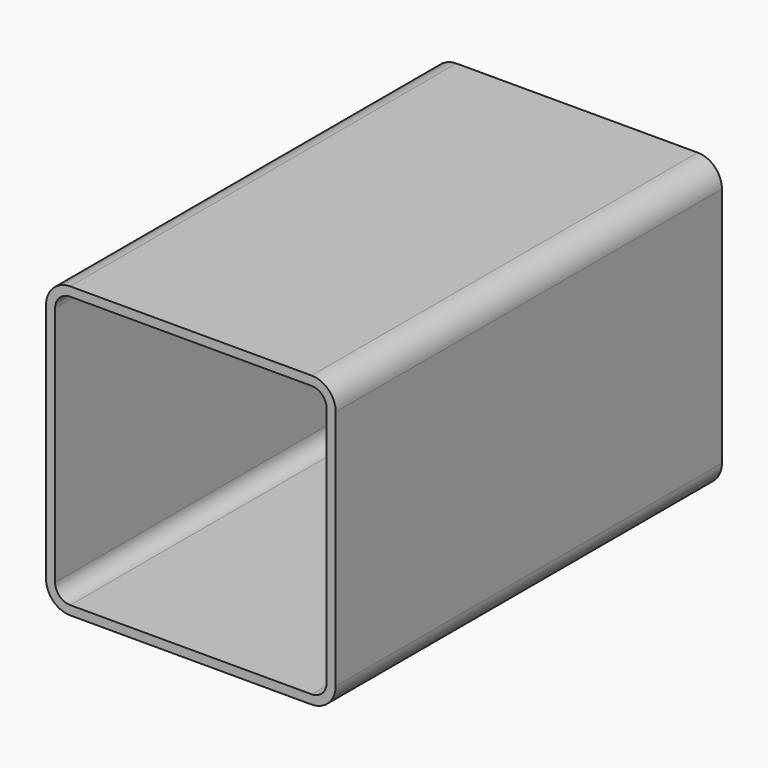
from build123d import *

# Parameters (mm, degrees)
F1_DEPTH = 254


with BuildPart() as f1:
    # F0 (on Front) → F1 (new body)
    with BuildSketch(Plane.XZ):
        with BuildLine():
            ThreePointArc((-76.2, -63.5), (-72.480256, -72.480256), (-63.5, -76.2))
            Line((-63.5, -76.2), (63.5, -76.2))
            ThreePointArc((63.5, -76.2), (72.480256, -72.480256), (76.2, -63.5))
            Line((76.2, -63.5), (76.2, 63.5))
            ThreePointArc((76.2, 63.5), (72.480256, 72.480256), (63.5, 76.2))
            Line((63.5, 76.2), (-63.5, 76.2))
            ThreePointArc((-63.5, 76.2), (-72.480256, 72.480256), (-76.2, 63.5))
            Line((-76.2, 63.5), (-76.2, -63.5))
        make_face()
        with BuildLine():
            ThreePointArc((-71.4375, 63.5), (-69.11266, 69.11266), (-63.5, 71.4375))
            Line((-63.5, 71.4375), (63.5, 71.4375))
            ThreePointArc((63.5, 71.4375), (69.11266, 69.11266), (71.4375, 63.5))
            Line((71.4375, 63.5), (71.4375, -63.5))
            ThreePointArc((71.4375, -63.5), (69.11266, -69.11266), (63.5, -71.4375))
            Line((63.5, -71.4375), (-63.5, -71.4375))
            ThreePointArc((-63.5, -71.4375), (-69.11266, -69.11266), (-71.4375, -63.5))
            Line((-71.4375, -63.5), (-71.4375, 63.5))
        make_face(mode=Mode.SUBTRACT)
    extrude(amount=-F1_DEPTH)


solid = f1.part
